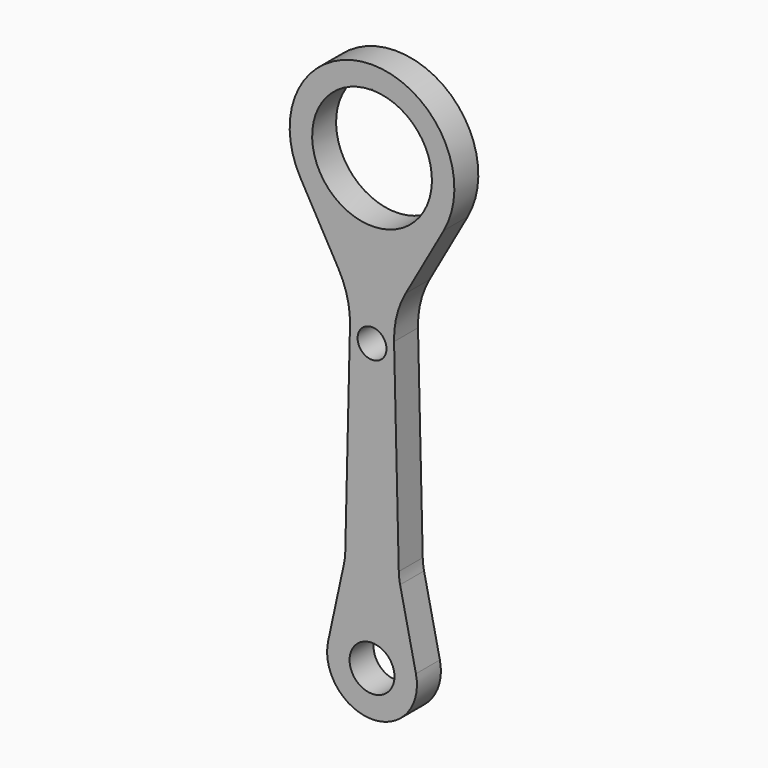
from build123d import *

# Parameters (mm, degrees)
F0_R     = 7.5
F0_R_2   = 4.817827
F1_DEPTH = 10


with BuildPart() as f1:
    # F0 (on Front) → F1 (new body)
    with BuildSketch(Plane.XZ):
        with BuildLine():
            Line((11.20954, -36.14687), (23.963852, -13.490137))
            ThreePointArc((23.963852, -13.490137), (0, 27.5), (-23.963852, -13.490137))
            Line((-23.963852, -13.490137), (-11.20954, -36.14687))
            ThreePointArc((-11.20954, -36.14687), (-8.245026, -43.597815), (-7.360198, -51.567884))
            Line((-7.360198, -51.567884), (-8.935744, -118.641348))
            ThreePointArc((-8.935744, -118.641348), (-9.069656, -120.529153), (-9.381407, -122.395848))
            Line((-9.381407, -122.395848), (-14.661616, -146.831875))
            ThreePointArc((-14.661616, -146.831875), (0, -165), (14.661616, -146.831875))
            Line((14.661616, -146.831875), (9.381407, -122.395848))
            ThreePointArc((9.381407, -122.395848), (9.069656, -120.529153), (8.935744, -118.641348))
            Line((8.935744, -118.641348), (7.360198, -51.567884))
            ThreePointArc((7.360198, -51.567884), (8.245026, -43.597815), (11.20954, -36.14687))
        make_face()
        with Locations((0, -150)):
            Circle(F0_R, mode=Mode.SUBTRACT)
        with Locations((0, -54.5)):
            Circle(F0_R_2, mode=Mode.SUBTRACT)
        with BuildLine():
            ThreePointArc((0.164004, 19.999328), (0, -20), (-0.164004, 19.999328))
            ThreePointArc((-0.164004, 19.999328), (0, 20.164006), (0.164004, 19.999328))
        make_face(mode=Mode.SUBTRACT)
    extrude(amount=F1_DEPTH)


solid = f1.part
